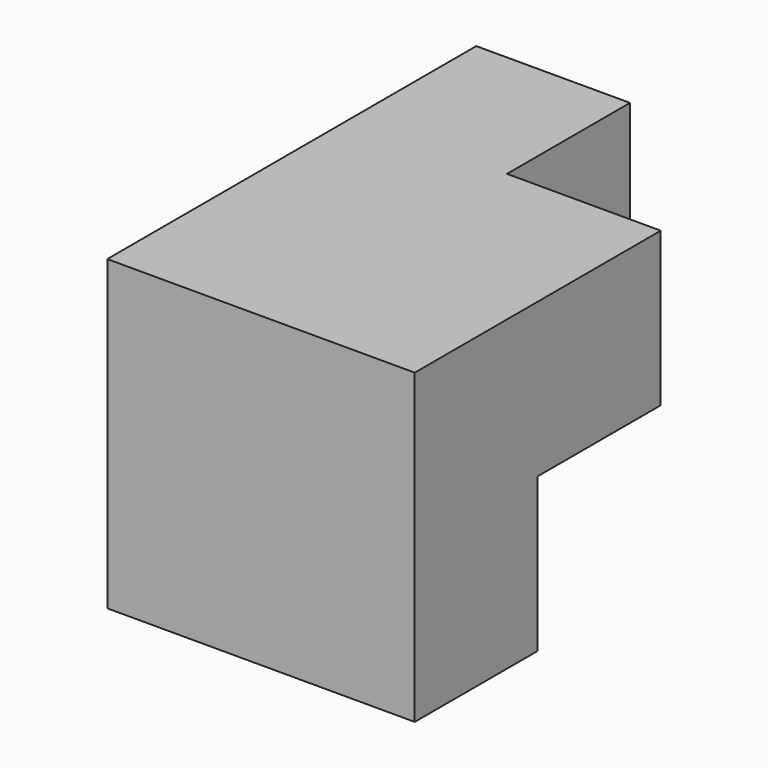
from build123d import *

# Parameters (mm, degrees)
F0_W     = 12
F0_H     = 12
F1_DEPTH = 12
F2_W     = 24
F2_H     = 12
F3_DEPTH = 12
F4_W     = 24
F4_H     = 12
F5_DEPTH = 12
F6_W     = 12
F6_H     = 12
F7_DEPTH = 12


with BuildPart() as f1:
    # F0 (on Top) → F1 (new body)
    with BuildSketch(Plane.XY):
        with Locations((-35.581973, -40.582312)):
            Rectangle(F0_W, F0_H)
        with Locations((-23.581973, -40.582312)):
            Rectangle(F0_W, F0_H)
    extrude(amount=F1_DEPTH)

    # F2 (on face) → F3 (join)
    with BuildSketch(Plane.XY.offset(12)):
        with Locations((-29.581973, -40.582312)):
            Rectangle(F2_W, F2_H)
    extrude(amount=F3_DEPTH)

    # F4 (on face) → F5 (join)
    with BuildSketch(Plane(origin=(0, -34.582312, 0), x_dir=(-1, 0, 0), z_dir=(0, 1, 0))):
        with Locations((29.581973, 18)):
            Rectangle(F4_W, F4_H)
    extrude(amount=F5_DEPTH)

    # F6 (on face) → F7 (join)
    with BuildSketch(Plane(origin=(0, -22.582312, 0), x_dir=(-1, 0, 0), z_dir=(0, 1, 0))):
        with Locations((35.581973, 18)):
            Rectangle(F6_W, F6_H)
    extrude(amount=F7_DEPTH)


solid = f1.part
